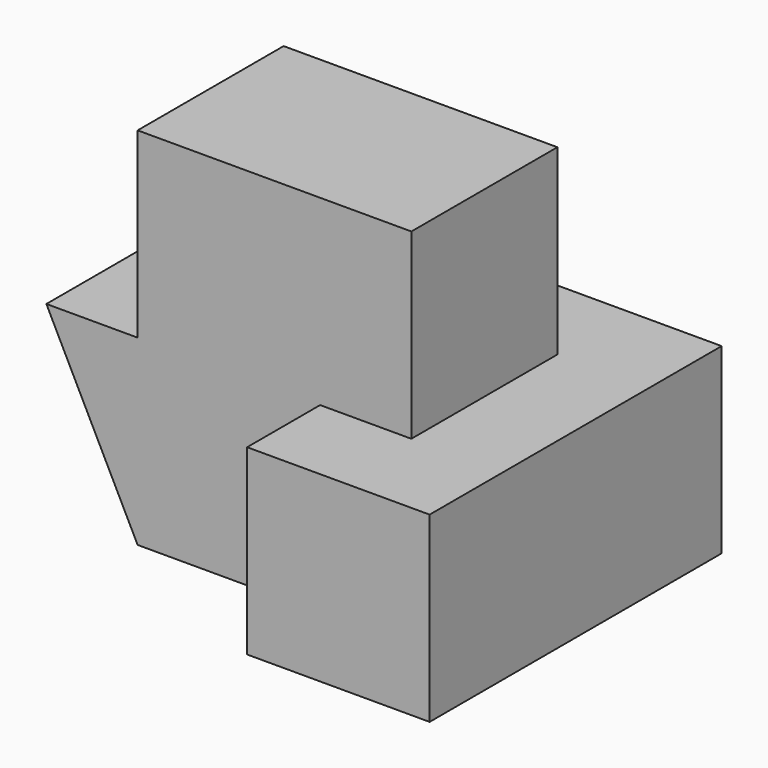
from build123d import *

# Parameters (mm, degrees)
F0_W     = 50
F0_H     = 40
F1_DEPTH = 40
F2_W     = 10
F2_H     = 20
F3_DEPTH = 50.001
F4_W     = 30
F4_H     = 10
F5_DEPTH = 20.001
F6_W     = 10
F6_H     = 20
F7_DEPTH = 20
F8_W     = 10
F8_H     = 20
F9_DEPTH = 30.001


with BuildPart() as f1:
    # F0 (on Front) → F1 (new body)
    with BuildSketch(Plane.XZ):
        with Locations((25, 20)):
            Rectangle(F0_W, F0_H)
    extrude(amount=F1_DEPTH)

    # F2 (on face) → F3 (cut, through all)
    with BuildSketch(Plane(origin=(0, 0, 0), x_dir=(0, -1, 0), z_dir=(-1, 0, 0))):
        with Locations((5, 30)):
            Rectangle(F2_W, F2_H)
        with Locations((35, 30)):
            Rectangle(F2_W, F2_H)
    extrude(amount=-F3_DEPTH, mode=Mode.SUBTRACT)

    # F4 (on face) → F5 (cut, through all)
    with BuildSketch(Plane.XY.offset(20)):
        with Locations((15, -5)):
            Rectangle(F4_W, F4_H)
        with Locations((15, -35)):
            Rectangle(F4_W, F4_H)
    extrude(amount=-F5_DEPTH, mode=Mode.SUBTRACT)

    # F6 (on face) → F7 (cut, through all)
    with BuildSketch(Plane.XY.offset(40)):
        with Locations((45, -20)):
            Rectangle(F6_W, F6_H)
    extrude(amount=-F7_DEPTH, mode=Mode.SUBTRACT)

    # F8 (on face) → F9 (cut, through all)
    with BuildSketch(Plane.XZ.offset(30)):
        Polygon((10, 0), (0, 20), (0, 0), align=None)
        with Locations((5, 30)):
            Rectangle(F8_W, F8_H)
    extrude(amount=-F9_DEPTH, mode=Mode.SUBTRACT)


solid = f1.part
